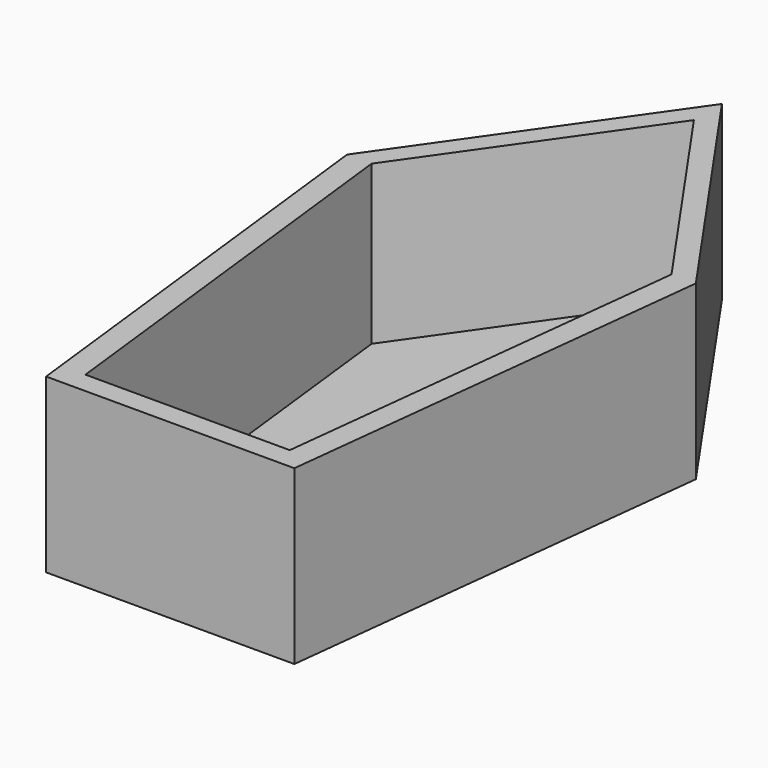
from build123d import *

# Parameters (mm, degrees)
F0_W     = 22.86
F0_H     = 93.98
F1_DEPTH = 31.75
F3_DEPTH = 29.21
F5_DEPTH = 25.4


with BuildPart() as f1:
    # F0 (on Top) → F1 (new body)
    with BuildSketch(Plane.XY):
        Polygon((-25.061955, -44.999161), (-25.061955, 48.980839), (-2.201955, 48.980839), (-2.201955, 82.000839), (-34.44485, 36.017679), align=None)
        with Locations((-13.631955, 1.990839)):
            Rectangle(F0_W, F0_H)
        Polygon((-2.201955, 82.000839), (-2.201955, 48.980839), (20.658045, 48.980839), (20.658045, -44.999161), (29.784556, 36.017679), align=None)
        with Locations((9.228045, 1.990839)):
            Rectangle(F0_W, F0_H)
    extrude(amount=F1_DEPTH)

    # F2 (on face) → F3 (cut)
    with BuildSketch(Plane.XY.offset(31.75)):
        Polygon((25.300306, 36.017679), (-2.201955, 75.554371), (-29.924656, 36.017679), (-21.003638, -41.011075), (16.62305, -41.011075), align=None)
    extrude(amount=-F3_DEPTH, mode=Mode.SUBTRACT)

    # F4 (on face) → F5 (cut)
    with BuildSketch(Plane.XY.offset(2.54)):
        Polygon((6.549126, 39.358769), (-2.201955, 39.358769), (-11.173476, 39.358769), (-11.173476, 27.984561), (6.549126, 27.984561), align=None)
    extrude(amount=-F5_DEPTH, mode=Mode.SUBTRACT)


solid = f1.part
